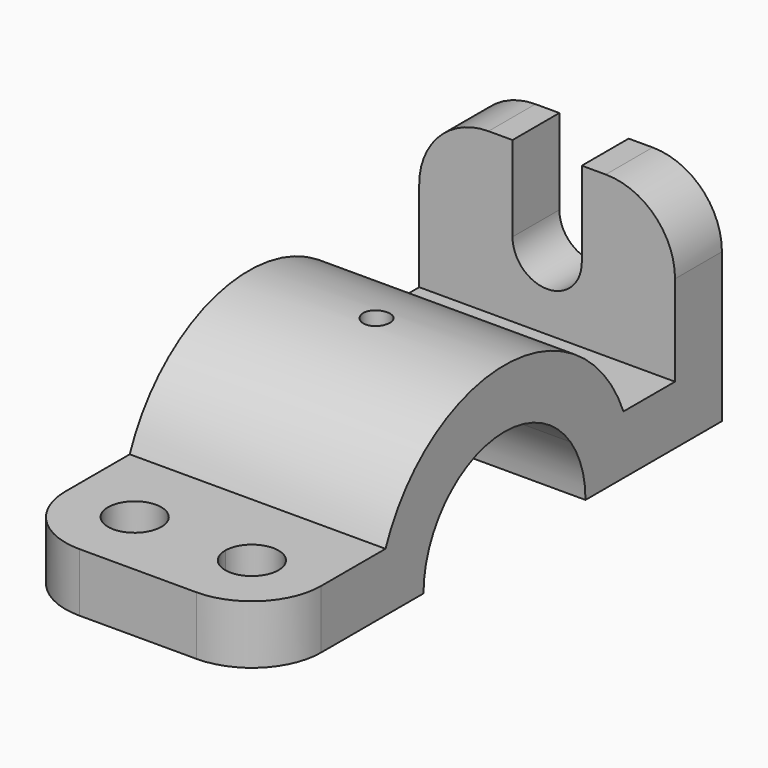
from build123d import *

# Parameters (mm, degrees)
F0_W     = 279.4
F0_H     = 279.4
F0_H_2   = 762
F1_DEPTH = 609.6
F4_DEPTH = 990.6
F5_DEPTH = 279.4
F6_DEPTH = 279.4


with BuildPart() as f1:
    # F0 (on Right) → F1 (new body, symmetric)
    with BuildSketch(Plane.YZ):
        with BuildLine():
            ThreePointArc((393.495108, 279.4), (459.78446, 146.632229), (482.6, 0))
            Line((482.6, 0), (762, 0))
            ThreePointArc((762, 0), (748.614563, 142.197875), (708.928515, 279.4))
            Line((708.928515, 279.4), (393.495108, 279.4))
        make_face()
        with BuildLine():
            ThreePointArc((-393.495108, 279.4), (0, 482.6), (393.495108, 279.4))
            Line((393.495108, 279.4), (708.928515, 279.4))
            ThreePointArc((708.928515, 279.4), (0, 762), (-708.928515, 279.4))
            Line((-708.928515, 279.4), (-393.495108, 279.4))
        make_face()
        with BuildLine():
            ThreePointArc((708.928515, 279.4), (748.614563, 142.197875), (762, 0))
            Line((762, 0), (1016, 0))
            Line((1016, 0), (1016, 279.4))
            Line((1016, 279.4), (708.928515, 279.4))
        make_face()
        with BuildLine():
            ThreePointArc((-482.6, 0), (-459.78446, 146.632229), (-393.495108, 279.4))
            Line((-393.495108, 279.4), (-708.928515, 279.4))
            ThreePointArc((-708.928515, 279.4), (-748.614563, 142.197875), (-762, 0))
            Line((-762, 0), (-482.6, 0))
        make_face()
        with Locations((1155.7, 139.7)):
            Rectangle(F0_W, F0_H)
        with BuildLine():
            ThreePointArc((-762, 0), (-748.614563, 142.197875), (-708.928515, 279.4))
            Line((-708.928515, 279.4), (-1422.4, 279.4))
            Line((-1422.4, 279.4), (-1422.4, 0))
            Line((-1422.4, 0), (-762, 0))
        make_face()
        with Locations((1155.7, 660.4)):
            Rectangle(F0_W, F0_H_2)
    extrude(amount=F1_DEPTH, both=True)

    # F3 (on face) → F4 (cut)
    with BuildSketch(Plane(origin=(0, 0, 0), x_dir=(1, 0, 0), z_dir=(0, 0, -1))):
        with BuildLine():
            ThreePointArc((63.5, 0), (44.901281, 44.901281), (0, 63.5))
            ThreePointArc((0, 63.5), (-44.901281, -44.901281), (63.5, 0))
        make_face()
    extrude(amount=-F4_DEPTH, mode=Mode.SUBTRACT)

    # F2 (on face) → F5 (cut)
    with BuildSketch(Plane(origin=(0, 1295.4, 0), x_dir=(-1, 0, 0), z_dir=(0, 1, 0))):
        with BuildLine():
            Line((609.6, 1041.4), (279.4, 1041.4))
            ThreePointArc((279.4, 1041.4), (512.886659, 944.686659), (609.6, 711.2))
            Line((609.6, 711.2), (609.6, 1041.4))
        make_face()
        with BuildLine():
            Line((165.1, 1041.4), (0, 1041.4))
            Line((0, 1041.4), (-165.1, 1041.4))
            Line((-165.1, 1041.4), (-165.1, 635))
            ThreePointArc((-165.1, 635), (0, 469.9), (165.1, 635))
            Line((165.1, 635), (165.1, 1041.4))
        make_face()
        with BuildLine():
            ThreePointArc((-609.6, 711.2), (-512.886659, 944.686659), (-279.4, 1041.4))
            Line((-279.4, 1041.4), (-609.6, 1041.4))
            Line((-609.6, 1041.4), (-609.6, 711.2))
        make_face()
    extrude(amount=-F5_DEPTH, mode=Mode.SUBTRACT)

    # F3 (on face) → F6 (cut)
    with BuildSketch(Plane(origin=(0, 0, 0), x_dir=(1, 0, 0), z_dir=(0, 0, -1))):
        with BuildLine():
            ThreePointArc((-152.4, 1092.2), (-189.597439, 1182.002561), (-279.4, 1219.2))
            ThreePointArc((-279.4, 1219.2), (-369.202561, 1002.397439), (-152.4, 1092.2))
        make_face()
        with BuildLine():
            ThreePointArc((406.4, 1092.2), (369.202561, 1182.002561), (279.4, 1219.2))
            ThreePointArc((279.4, 1219.2), (189.597439, 1182.002561), (152.4, 1092.2))
            ThreePointArc((152.4, 1092.2), (279.4, 965.2), (406.4, 1092.2))
        make_face()
        with BuildLine():
            ThreePointArc((-609.6, 1092.2), (-512.886659, 1325.686659), (-279.4, 1422.4))
            Line((-279.4, 1422.4), (-609.6, 1422.4))
            Line((-609.6, 1422.4), (-609.6, 1092.2))
        make_face()
        with BuildLine():
            Line((609.6, 1422.4), (279.4, 1422.4))
            ThreePointArc((279.4, 1422.4), (512.886659, 1325.686659), (609.6, 1092.2))
            Line((609.6, 1092.2), (609.6, 1422.4))
        make_face()
    extrude(amount=-F6_DEPTH, mode=Mode.SUBTRACT)


solid = f1.part
